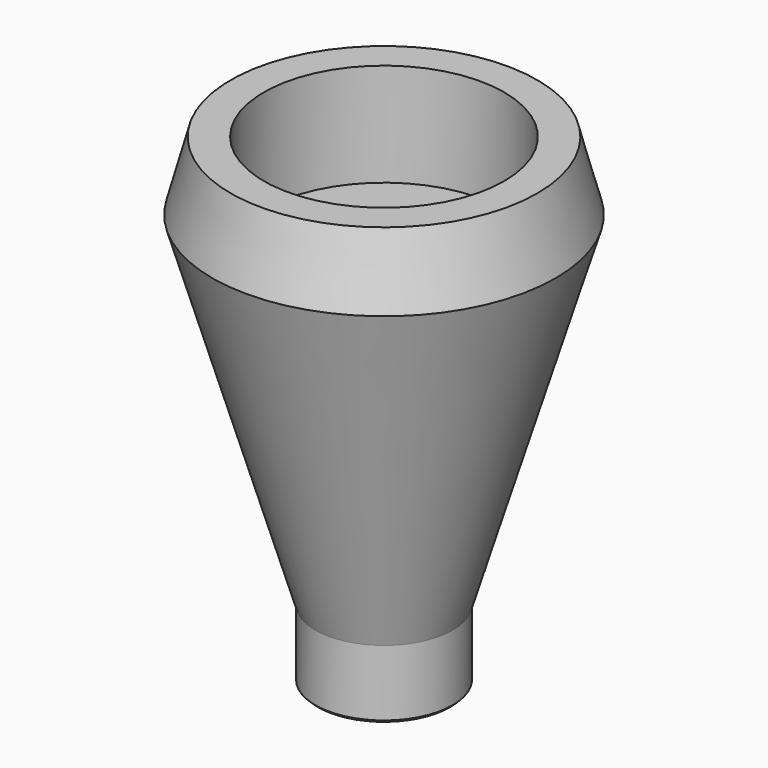
from build123d import *

# Parameters (mm, degrees)
F2_SIZE2 = 0.254
F2_SIZE  = 0.254


with BuildPart() as f1:
    # F0 (on Front) → F1 (revolve)
    with BuildSketch(Plane.XZ):
        Polygon((4.7625, 6.432414), (6.35, 6.35), (15.875, 38.1), (11.1125, 38.1), (11.1125, 34.925), (4.7625, 34.925), align=None)
        Polygon((0, 6.432414), (0, 0), (6.35, 0), (6.35, 6.35), (4.7625, 6.432414), align=None)
        Polygon((11.1125, 38.1), (15.875, 38.1), (14.173523, 44.45), (11.1125, 44.45), align=None)
    revolve(axis=Axis((0, 0, 19.05), (0, 0, 1)))

    # F2
    f2_edges = [f1.edges().sort_by_distance(p)[0] for p in [
        (-6.35, 0, 0),
    ]]
    chamfer(f2_edges, length=F2_SIZE, length2=F2_SIZE2)


solid = f1.part
